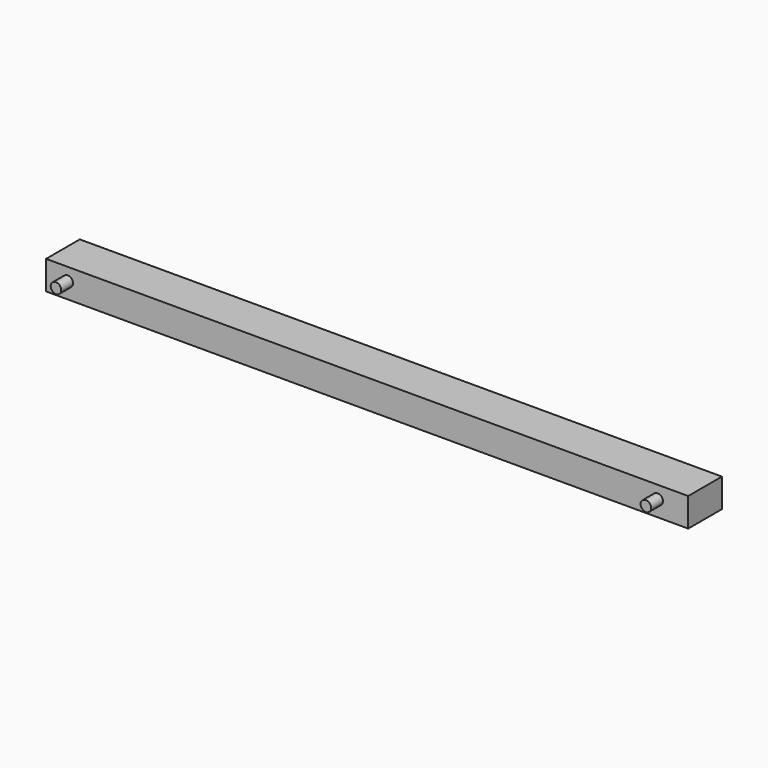
from build123d import *

# Parameters (mm, degrees)
F0_W     = 387.081258
F0_H     = 17.29972
F0_R     = 3.175
F1_DEPTH = 25.4
F2_DEPTH = 8.89


with BuildPart() as f1:
    # F0 (on Front) → F1 (new body)
    with BuildSketch(Plane.XZ):
        with Locations((107.74589, -0.960914)):
            Rectangle(F0_W, F0_H)
        with Locations((-72.73636, 0)):
            Circle(F0_R, mode=Mode.SUBTRACT)
        with Locations((282.86364, 0)):
            Circle(F0_R, mode=Mode.SUBTRACT)
        with Locations((-72.73636, 0)):
            Circle(F0_R)
        with Locations((282.86364, 0)):
            Circle(F0_R)
    extrude(amount=-F1_DEPTH)

    # F0 (on Front) → F2 (join)
    with BuildSketch(Plane.XZ):
        with Locations((-72.73636, 0)):
            Circle(F0_R)
        with Locations((282.86364, 0)):
            Circle(F0_R)
    extrude(amount=F2_DEPTH)


solid = f1.part
